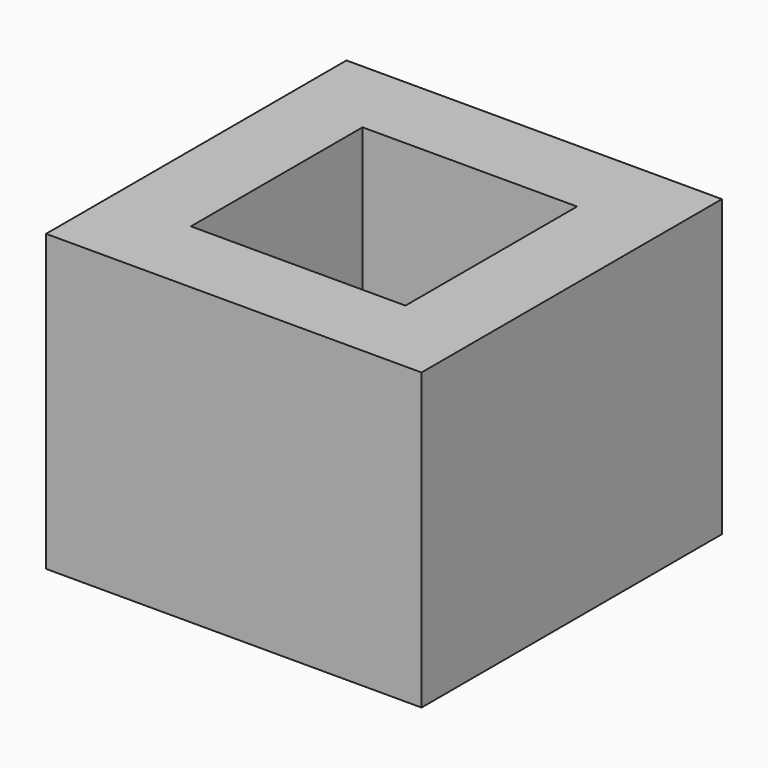
from build123d import *

# Parameters (mm, degrees)
F1_DEPTH = 203.2
F2_W     = 355.6
F2_H     = 355.6
F3_DEPTH = 76.2


with BuildPart() as f1:
    # F0 (on Top) → F1 (new body)
    with BuildSketch(Plane.XY):
        Polygon((-154.168823, 12.068547), (-154.168823, 102.233903), (-52.568823, 102.233903), (-52.568823, 178.433903), (-230.368823, 178.433903), (-230.368823, 12.068547), align=None)
        Polygon((-154.168823, -100.966097), (-154.168823, 12.068547), (-230.368823, 12.068547), (-230.368823, -177.166097), (-52.568823, -177.166097), (-52.568823, -100.966097), align=None)
        Polygon((125.231177, 6.108771), (49.031177, 6.108771), (49.031177, -100.966097), (-52.568823, -100.966097), (-52.568823, -177.166097), (125.231177, -177.166097), align=None)
        Polygon((-52.568823, 178.433903), (-52.568823, 102.233903), (49.031177, 102.233903), (49.031177, 6.108771), (125.231177, 6.108771), (125.231177, 178.433903), align=None)
    extrude(amount=F1_DEPTH)

    # F2 (on face) → F3 (join)
    with BuildSketch(Plane(origin=(0, 0, 0), x_dir=(1, 0, 0), z_dir=(0, 0, -1))):
        with Locations((-52.568823, -0.633903)):
            Rectangle(F2_W, F2_H)
    extrude(amount=F3_DEPTH)


solid = f1.part
